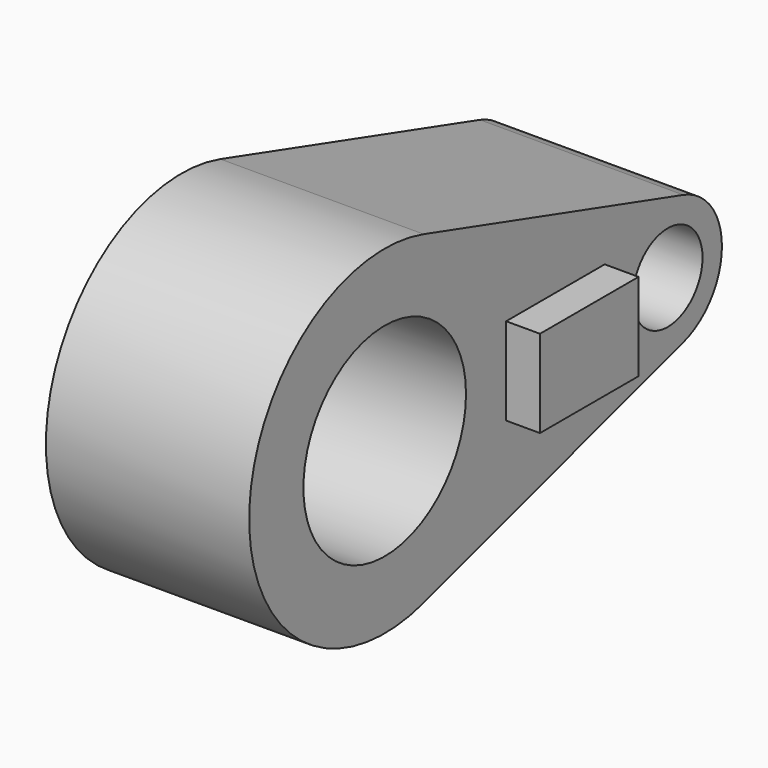
from build123d import *

# Parameters (mm, degrees)
F1_DEPTH = 76.2
F2_R     = 38.089207
F2_R_2   = 16.306918
F3_DEPTH = 50.8
F4_W     = 46.19369
F4_H     = 32.77332
F5_DEPTH = 12.7


with BuildPart() as f1:
    # F0 (on Right) → F1 (new body)
    with BuildSketch(Plane.YZ):
        with BuildLine():
            ThreePointArc((-61.721072, -60.821969), (-29.022062, -37.905089), (-16.467663, 0))
            ThreePointArc((-16.467663, 0), (-29.022062, 37.905089), (-61.721072, 60.821969))
            ThreePointArc((-61.721072, 60.821969), (-143.467663, 0), (-61.721072, -60.821969))
        make_face()
        with BuildLine():
            ThreePointArc((-61.721072, 60.821969), (-29.022062, 37.905089), (-16.467663, 0))
            ThreePointArc((-16.467663, 0), (-29.022062, -37.905089), (-61.721072, -60.821969))
            Line((-61.721072, -60.821969), (59.922866, -24.328788))
            ThreePointArc((59.922866, -24.328788), (27.22423, 0), (59.922866, 24.328788))
            Line((59.922866, 24.328788), (-61.721072, 60.821969))
        make_face()
        with BuildLine():
            ThreePointArc((78.02423, 0), (73.00247, 15.162035), (59.922866, 24.328788))
            ThreePointArc((59.922866, 24.328788), (27.22423, 0), (59.922866, -24.328788))
            ThreePointArc((59.922866, -24.328788), (73.00247, -15.162035), (78.02423, 0))
        make_face()
    extrude(amount=F1_DEPTH)

    # F2 (on face) → F3 (cut)
    with BuildSketch(Plane.YZ.offset(76.2)):
        with Locations((-79.967663, 0)):
            Circle(F2_R)
        with Locations((52.62423, 0)):
            Circle(F2_R_2)
    extrude(amount=-F3_DEPTH, mode=Mode.SUBTRACT)

    # F4 (on face) → F5 (join)
    with BuildSketch(Plane.YZ.offset(76.2)):
        Rectangle(F4_W, F4_H)
    extrude(amount=F5_DEPTH)


solid = f1.part
